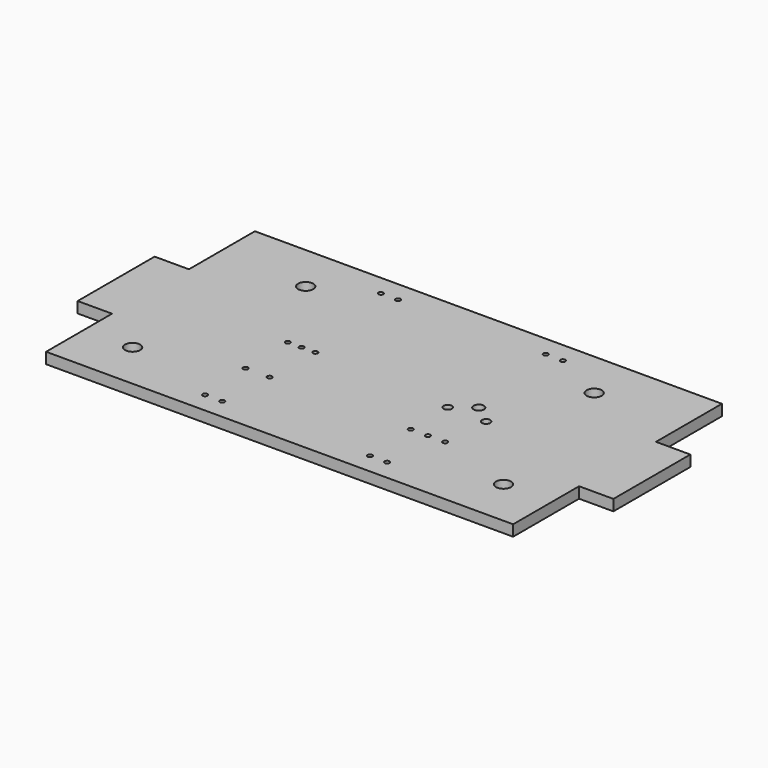
from build123d import *

# Parameters (mm, degrees)
F0_W     = 68
F0_H     = 12
F0_W_2   = 5
F0_H_2   = 14
F1_DEPTH = 1.6
F4_R     = 0.35
F5_R     = 0.35
F6_R     = 0.35
F2_R     = 0.35
F7_DEPTH = 4
F8_R     = 1.1
F9_DEPTH = 25


with BuildPart() as f1:
    # F0 (on Top) → F1 (new body)
    with BuildSketch(Plane.XY):
        with Locations((41.3172904253, 1.6970097786)):
            Rectangle(F0_W, F0_H)
        with Locations((4.8172904253, 14.6970097786)):
            Rectangle(F0_W_2, F0_H_2)
        with Locations((41.3172904253, 14.6970097786)):
            Rectangle(F0_W, F0_H_2)
        with Locations((77.8172904253, 14.6970097786)):
            Rectangle(F0_W_2, F0_H_2)
        with Locations((41.3172904253, 27.6970097786)):
            Rectangle(F0_W, F0_H)
    extrude(amount=F1_DEPTH)

    # F4 (on face) + F5 (on face) + F6 (on face) + F3 (on face) + F2 (on face) → F7 (cut)
    with BuildSketch(Plane.XY.offset(1.6)):
        with Locations((51.6172904253, 6.6970097786)):
            Circle(F4_R)
        with Locations((56.6172904253, 6.6970097786)):
            Circle(F4_R)
        with Locations((54.1172904253, 6.6970097786)):
            Circle(F4_R)
    with BuildSketch(Plane.XY.offset(1.6)):
        with Locations((28.0672904253, -1.3029902214)):
            Circle(F5_R)
        with Locations((30.5672904253, -1.3029902214)):
            Circle(F5_R)
        with Locations((52.0672904253, -1.3029902214)):
            Circle(F5_R)
        with Locations((54.5672904253, -1.3029902214)):
            Circle(F5_R)
        with Locations((54.5672904253, 30.6970097786)):
            Circle(F5_R)
        with Locations((52.0672904253, 30.6970097786)):
            Circle(F5_R)
        with Locations((30.5672904253, 30.6970097786)):
            Circle(F5_R)
        with Locations((28.0672904253, 30.6970097786)):
            Circle(F5_R)
    with BuildSketch(Plane.XY.offset(1.6)):
        with Locations((27.5672904253, 6.6970097786)):
            Circle(F6_R)
        with Locations((31.0672904253, 6.6970097786)):
            Circle(F6_R)
    with BuildSketch(Plane.XY.offset(1.6)):
        with BuildLine():
            Line((54.8172904253, 15.4470097786), (53.8172904253, 15.4470097786))
            ThreePointArc((53.8172904253, 15.4470097786), (53.640513733, 15.5202330803), (53.5672904253, 15.6970097701))
            ThreePointArc((53.5672904253, 15.6970097701), (54.3172904296, 14.9470097786), (55.0672904253, 15.6970097786))
            ThreePointArc((55.0672904253, 15.6970097786), (54.9940671206, 15.5202330833), (54.8172904253, 15.4470097786))
        make_face()
        with BuildLine():
            ThreePointArc((53.5672904253, 15.6970097701), (53.640513733, 15.5202330803), (53.8172904253, 15.4470097786))
            Line((53.8172904253, 15.4470097786), (54.8172904253, 15.4470097786))
            ThreePointArc((54.8172904253, 15.4470097786), (54.9940671206, 15.5202330833), (55.0672904253, 15.6970097786))
            ThreePointArc((55.0672904253, 15.6970097786), (54.9940671206, 15.8737864739), (54.8172904253, 15.9470097786))
            Line((54.8172904253, 15.9470097786), (53.8172904253, 15.9470097786))
            ThreePointArc((53.8172904253, 15.9470097786), (53.640513727, 15.8737864709), (53.5672904253, 15.6970097701))
        make_face()
        with BuildLine():
            ThreePointArc((55.0672904253, 15.6970097786), (54.317290421, 16.4470097786), (53.5672904253, 15.6970097701))
            ThreePointArc((53.5672904253, 15.6970097701), (53.640513727, 15.8737864709), (53.8172904253, 15.9470097786))
            Line((53.8172904253, 15.9470097786), (54.8172904253, 15.9470097786))
            ThreePointArc((54.8172904253, 15.9470097786), (54.9940671206, 15.8737864739), (55.0672904253, 15.6970097786))
        make_face()
        with BuildLine():
            Line((51.1672904253, 13.7970097786), (51.8672904253, 13.7970097786))
            ThreePointArc((51.8672904253, 13.7970097786), (52.0440671206, 13.7237864739), (52.1172904253, 13.5470097786))
            ThreePointArc((52.1172904253, 13.5470097786), (51.5172904253, 14.1470097786), (50.9172904253, 13.5470097786))
            ThreePointArc((50.9172904253, 13.5470097786), (50.99051373, 13.7237864739), (51.1672904253, 13.7970097786))
        make_face()
        with BuildLine():
            ThreePointArc((52.1172904253, 13.5470097786), (52.0440671206, 13.7237864739), (51.8672904253, 13.7970097786))
            Line((51.8672904253, 13.7970097786), (51.1672904253, 13.7970097786))
            ThreePointArc((51.1672904253, 13.7970097786), (50.99051373, 13.7237864739), (50.9172904253, 13.5470097786))
            ThreePointArc((50.9172904253, 13.5470097786), (50.99051373, 13.3702330833), (51.1672904253, 13.2970097786))
            Line((51.1672904253, 13.2970097786), (51.8672904253, 13.2970097786))
            ThreePointArc((51.8672904253, 13.2970097786), (52.0440671206, 13.3702330833), (52.1172904253, 13.5470097786))
        make_face()
        with BuildLine():
            ThreePointArc((50.9172904253, 13.5470097786), (51.5172904253, 12.9470097786), (52.1172904253, 13.5470097786))
            ThreePointArc((52.1172904253, 13.5470097786), (52.0440671206, 13.3702330833), (51.8672904253, 13.2970097786))
            Line((51.8672904253, 13.2970097786), (51.1672904253, 13.2970097786))
            ThreePointArc((51.1672904253, 13.2970097786), (50.99051373, 13.3702330833), (50.9172904253, 13.5470097786))
        make_face()
        with BuildLine():
            Line((56.7672904253, 13.2970097786), (57.4672904253, 13.2970097786))
            ThreePointArc((57.4672904253, 13.2970097786), (57.6440671206, 13.3702330833), (57.7172904253, 13.5470097786))
            ThreePointArc((57.7172904253, 13.5470097786), (57.6440671206, 13.7237864739), (57.4672904253, 13.7970097786))
            Line((57.4672904253, 13.7970097786), (56.7672904253, 13.7970097786))
            ThreePointArc((56.7672904253, 13.7970097786), (56.59051373, 13.7237864739), (56.5172904253, 13.5470097786))
            ThreePointArc((56.5172904253, 13.5470097786), (56.59051373, 13.3702330833), (56.7672904253, 13.2970097786))
        make_face()
        with BuildLine():
            ThreePointArc((57.7172904253, 13.5470097786), (57.6440671206, 13.3702330833), (57.4672904253, 13.2970097786))
            Line((57.4672904253, 13.2970097786), (56.7672904253, 13.2970097786))
            ThreePointArc((56.7672904253, 13.2970097786), (56.59051373, 13.3702330833), (56.5172904253, 13.5470097786))
            ThreePointArc((56.5172904253, 13.5470097786), (57.1172904253, 12.9470097786), (57.7172904253, 13.5470097786))
        make_face()
        with BuildLine():
            ThreePointArc((57.4672904253, 13.7970097786), (57.6440671206, 13.7237864739), (57.7172904253, 13.5470097786))
            ThreePointArc((57.7172904253, 13.5470097786), (57.1172904253, 14.1470097786), (56.5172904253, 13.5470097786))
            ThreePointArc((56.5172904253, 13.5470097786), (56.59051373, 13.7237864739), (56.7672904253, 13.7970097786))
            Line((56.7672904253, 13.7970097786), (57.4672904253, 13.7970097786))
        make_face()
    with BuildSketch(Plane.XY.offset(1.6)):
        with Locations((27.3172904253, 14.6970097786)):
            Circle(F2_R)
        with Locations((29.3172904253, 14.6970097786)):
            Circle(F2_R)
        with Locations((31.3172904253, 14.6970097786)):
            Circle(F2_R)
    extrude(amount=-F7_DEPTH, mode=Mode.SUBTRACT)

    # F8 (on face) → F9 (cut)
    with BuildSketch(Plane.XY.offset(1.6)):
        with Locations((62.3172904253, 26.6970097786)):
            Circle(F8_R)
        with Locations((20.3172904253, 26.6970097786)):
            Circle(F8_R)
        with Locations((68.3172904253, 2.6970097786)):
            Circle(F8_R)
        with Locations((14.3172904253, 2.6970097786)):
            Circle(F8_R)
    extrude(amount=-F9_DEPTH, mode=Mode.SUBTRACT)


solid = f1.part
